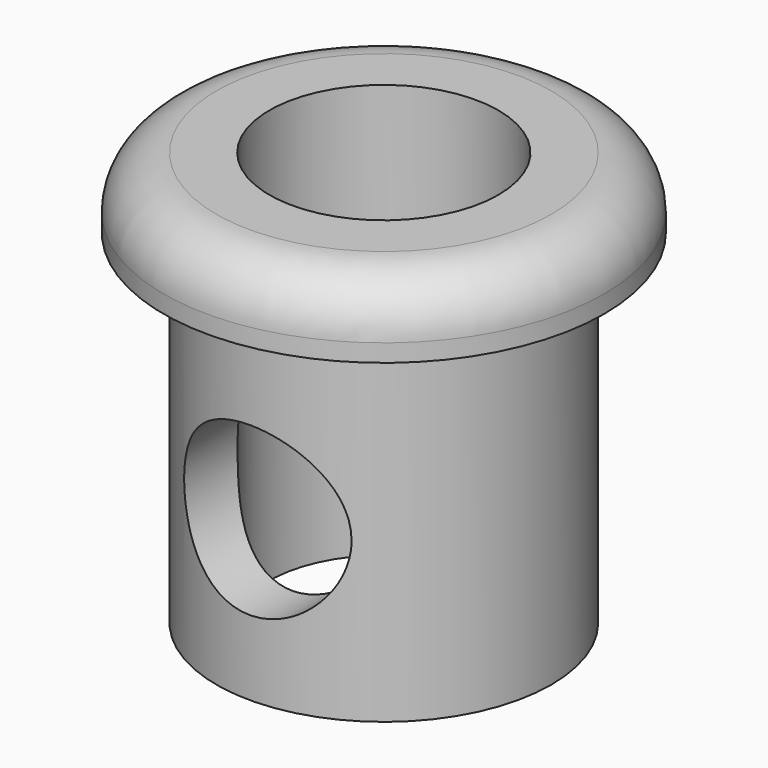
from build123d import *

# Parameters (mm, degrees)
F0_R          = 9.5
F0_R_2        = 6.5
F1_DEPTH      = 19.5
F2_R          = 12.5
F2_R_2        = 6.5
F3_DEPTH      = 4
F4_R          = 3
F5_R          = 4.75
F6_DEPTH      = 25
F6_DEPTH_BACK = 25


with BuildPart() as f1:
    # F0 (on Top) → F1 (new body)
    with BuildSketch(Plane.XY):
        Circle(F0_R)
        Circle(F0_R_2, mode=Mode.SUBTRACT)
    extrude(amount=F1_DEPTH)

    # F2 (on face) → F3 (join)
    with BuildSketch(Plane.XY.offset(19.5)):
        Circle(F2_R)
        Circle(F2_R_2, mode=Mode.SUBTRACT)
    extrude(amount=F3_DEPTH)

    # F4
    f4_edges = [f1.edges().sort_by_distance(p)[0] for p in [
        (-12.5, 0, 23.5),
    ]]
    fillet(f4_edges, radius=F4_R)

    # F5 (on Front) → F6 (cut, two sides)
    with BuildSketch(Plane.XZ) as f6_sk:
        with Locations((0, 9)):
            Circle(F5_R)
    extrude(amount=-F6_DEPTH, mode=Mode.SUBTRACT)
    extrude(f6_sk.sketch, amount=F6_DEPTH_BACK, mode=Mode.SUBTRACT)


solid = f1.part
